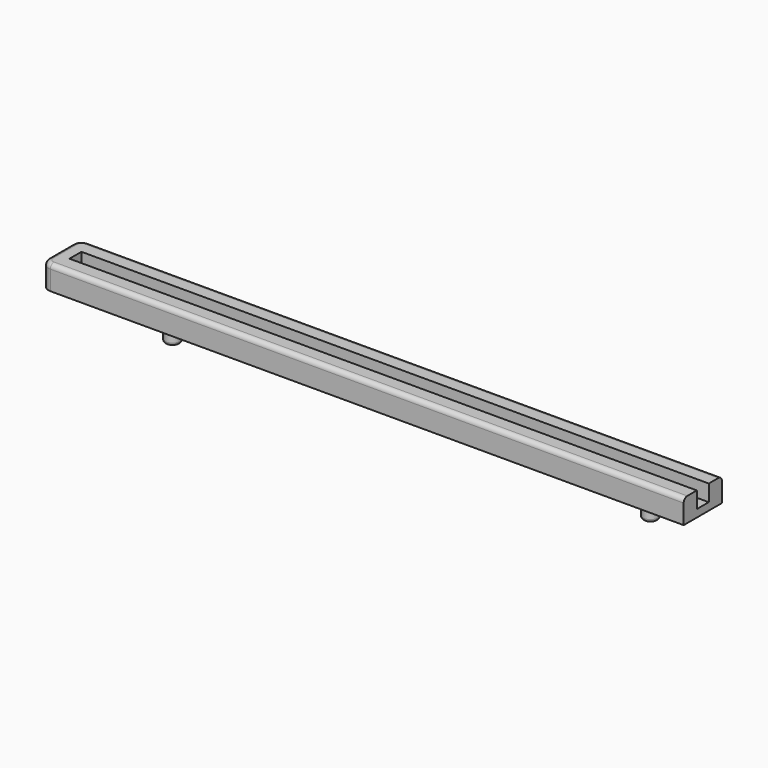
from build123d import *

# Parameters (mm, degrees)
F0_W     = 215
F0_H     = 16
F1_DEPTH = 8
F2_R     = 2.5
F3_DEPTH = 7
F4_R     = 3
F5_R     = 1
F6_R     = 1.5
F7_W     = 210
F7_H     = 5
F8_DEPTH = 5.5


with BuildPart() as f1:
    # F0 (on Top) → F1 (new body)
    with BuildSketch(Plane.XY):
        with Locations((-7.5, 0)):
            Rectangle(F0_W, F0_H)
    extrude(amount=F1_DEPTH)

    # F2 (on face) → F3 (join)
    with BuildSketch(Plane(origin=(0, 0, 0), x_dir=(1, 0, 0), z_dir=(0, 0, -1))):
        with Locations((-77.5, 0)):
            Circle(F2_R)
        with Locations((82.5, 0)):
            Circle(F2_R)
    extrude(amount=F3_DEPTH)

    # F4
    f4_edges = [f1.edges().sort_by_distance(p)[0] for p in [
        (-115, -8, 4),
        (-115, 8, 4),
    ]]
    fillet(f4_edges, radius=F4_R)

    # F5
    f5_edges = [f1.edges().sort_by_distance(p)[0] for p in [
        (-80, 0, -7),
        (80, 0, -7),
    ]]
    fillet(f5_edges, radius=F5_R)

    # F6
    f6_edges = [f1.edges().sort_by_distance(p)[0] for p in [
        (-6, -8, 8),
    ]]
    fillet(f6_edges, radius=F6_R)

    # F7 (on face) → F8 (cut)
    with BuildSketch(Plane.XY.offset(8)):
        with Locations((-5, 0)):
            Rectangle(F7_W, F7_H)
    extrude(amount=-F8_DEPTH, mode=Mode.SUBTRACT)


solid = f1.part
